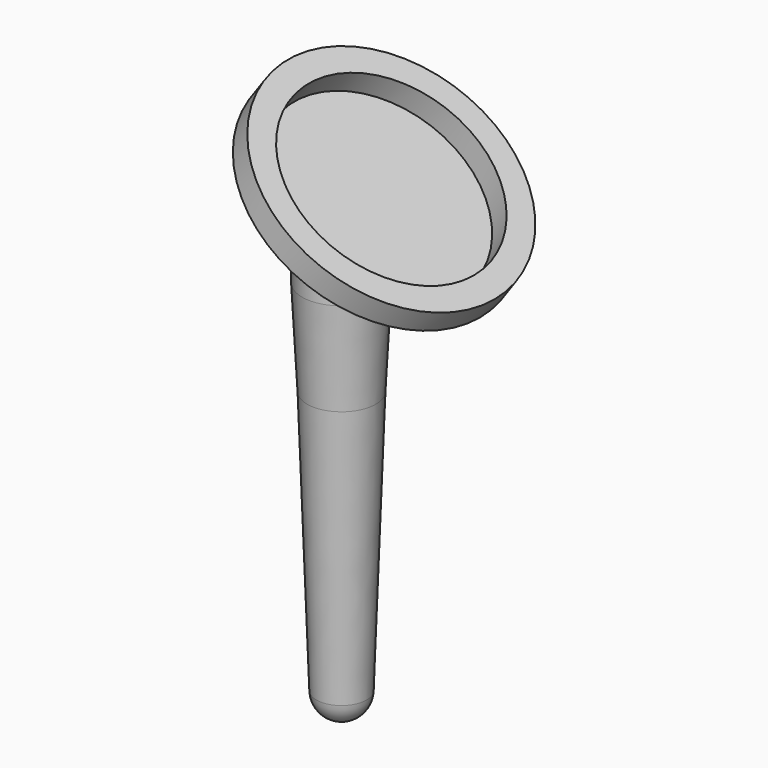
from build123d import *

# Parameters (mm, degrees)
F5_R     = 20
F6_DEPTH = 5


with BuildPart() as f1:
    # F0 (on Front) → F1 (revolve)
    with BuildSketch(Plane.XZ):
        with BuildLine():
            Line((-6.8241658505, -19.05), (-4.9969541351, -71.3744974835))
            ThreePointArc((-4.9969541351, -71.3744974835), (-3.4732918523, -74.7966990017), (0, -76.2))
            Line((0, -76.2), (0, 0))
            Line((0, 0), (0, 20))
            Line((0, 20), (-7.8225340458, 20))
            Line((-7.8225340458, 20), (-7.8225340458, 0))
            Line((-7.8225340458, 0), (-6.8241658505, -19.05))
        make_face()
    revolve(axis=Axis((0, 0, 4.3368881511), (0, 0, -1)))

    # F3 (on Front) → F4 (revolve)
    with BuildSketch(Plane.XZ):
        Polygon((9.9000765866, 21.2795146775), (-5, 0), (27.5109955121, 2.8443435472), (30.3788776938, 6.9401037687), align=None)
    revolve(axis=Axis((2.4500382933, 0, 10.6397573387), (0.5735764364, 0, 0.8191520443)))

    # F5 (on face) → F6 (cut)
    with BuildSketch(Plane(origin=(13.2551269449, 0, 18.9302831255), x_dir=(0.8191520443, 0, -0.5735764364), z_dir=(0.5735764364, 0, 0.8191520443))):
        with Locations((-4.0957602214, 0)):
            Circle(F5_R)
    extrude(amount=-F6_DEPTH, mode=Mode.SUBTRACT)


solid = f1.part
